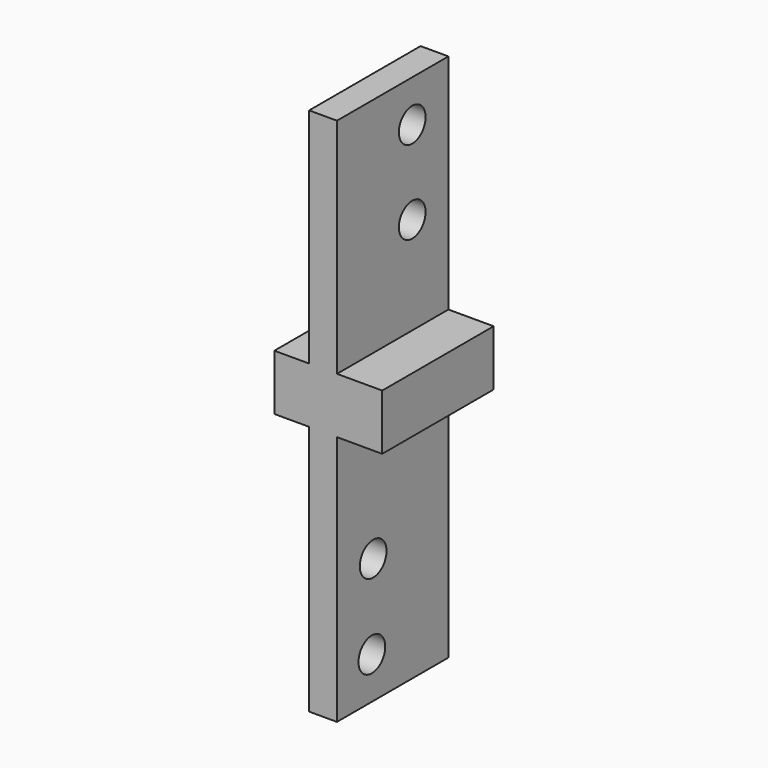
from build123d import *

# Parameters (mm, degrees)
F1_DEPTH = 31.75
F5_D     = 7.62


with BuildPart() as f1:
    # F0 (on Front) → F1 (new body)
    with BuildSketch(Plane.XZ):
        Polygon((0, 50.8), (0, 0), (-7.9248, 0), (-7.9248, -12.7), (0, -12.7), (0, -69.85), (6.35, -69.85), (6.35, -12.7), (16.6624, -12.7), (16.6624, 0), (6.35, 0), (6.35, 50.8), align=None)
    extrude(amount=F1_DEPTH)

    # F5 (through all)
    with Locations(Plane(origin=(0, 0, 0), x_dir=(0, -1, 0), z_dir=(-1, 0, 0))):
        with Locations((10.3124, 41.275), (10.3124, 22.225), (21.4376, -41.275), (21.807237, -60.325)):
            Hole(F5_D / 2)


solid = f1.part
